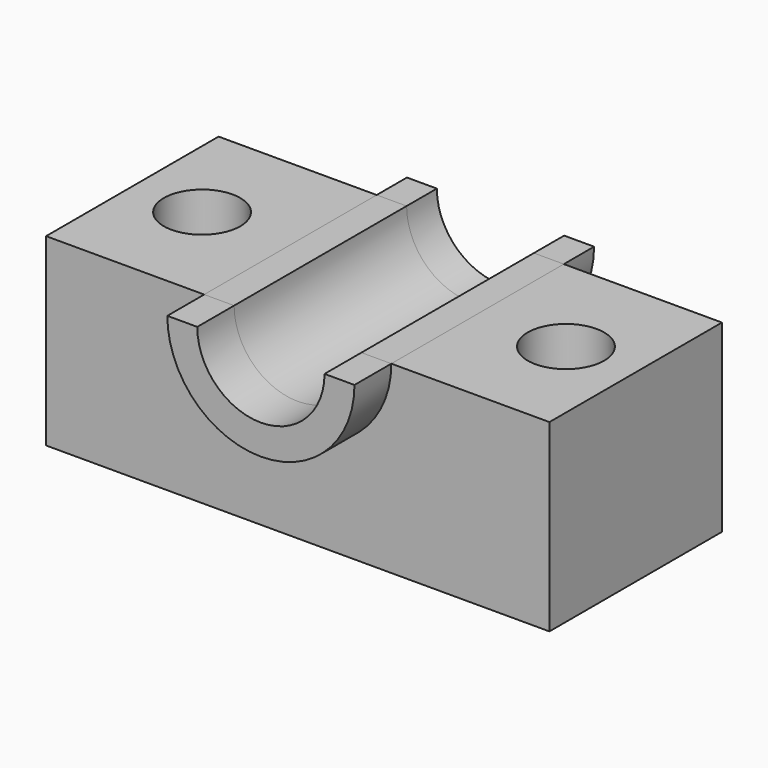
from build123d import *

# Parameters (mm, degrees)
F0_W          = 277.48093
F0_H          = 118.857272
F0_R          = 21.085253
F1_DEPTH      = 101.6
F2_R          = 35.081805
F3_DEPTH      = 118.858272
F5_DEPTH      = 25.4
F5_DEPTH_BACK = 139.7


with BuildPart() as f1:
    # F0 (on Top) → F1 (new body)
    with BuildSketch(Plane.XY):
        Rectangle(F0_W, F0_H)
        with Locations((-100.299634, 0)):
            Circle(F0_R, mode=Mode.SUBTRACT)
        with Locations((100.299634, 0)):
            Circle(F0_R, mode=Mode.SUBTRACT)
    extrude(amount=F1_DEPTH)

    # F2 (on face) → F3 (cut, through all)
    with BuildSketch(Plane.XZ.offset(59.428636)):
        with Locations((0, 101.6)):
            Circle(F2_R)
    extrude(amount=-F3_DEPTH, mode=Mode.SUBTRACT)

    # F4 (on face) → F5 (join, two sides)
    with BuildSketch(Plane.XZ.offset(59.428636)) as f5_sk:
        with BuildLine():
            ThreePointArc((35.081805, 101.6), (0, 66.518195), (-35.081805, 101.6))
            Line((-35.081805, 101.6), (-51.581461, 101.6))
            ThreePointArc((-51.581461, 101.6), (0, 50.018539), (51.581461, 101.6))
            Line((51.581461, 101.6), (35.081805, 101.6))
        make_face()
    extrude(amount=F5_DEPTH)
    extrude(f5_sk.sketch, amount=-F5_DEPTH_BACK)


solid = f1.part
